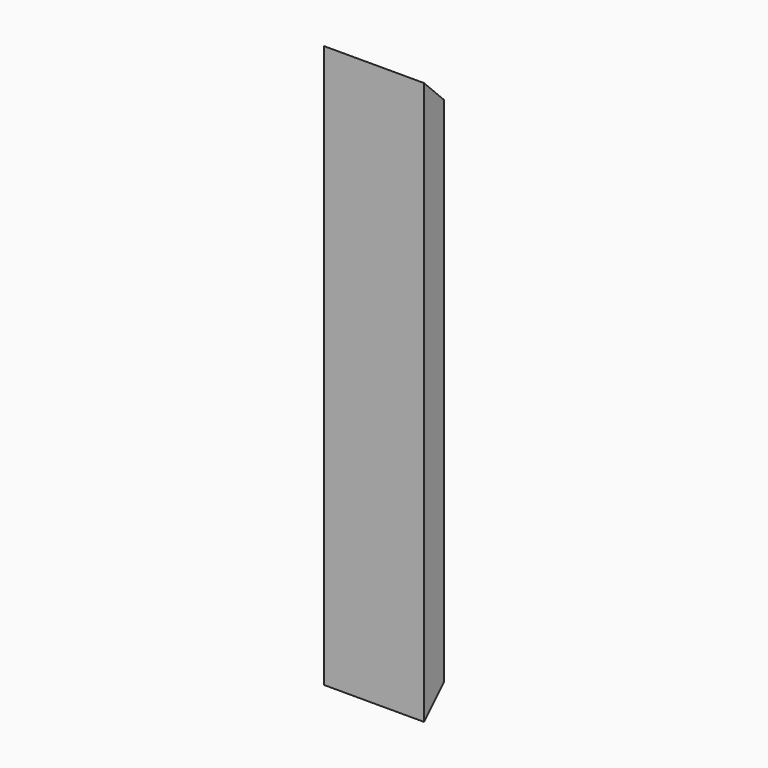
from build123d import *

# Parameters (mm, degrees)
F0_W     = 80
F0_H     = 450
F1_DEPTH = 20
F3_DEPTH = 80


with BuildPart() as f1:
    # F0 (on Front) → F1 (new body)
    with BuildSketch(Plane.XZ):
        Rectangle(F0_W, F0_H)
    extrude(amount=F1_DEPTH)

    # F2 (on face) → F3 (cut)
    with BuildSketch(Plane.YZ.offset(40)):
        Polygon((0, 225), (-20, 225), (0, 205), align=None)
        Polygon((0, -205), (-20, -225), (0, -225), align=None)
    extrude(amount=-F3_DEPTH, mode=Mode.SUBTRACT)


solid = f1.part
